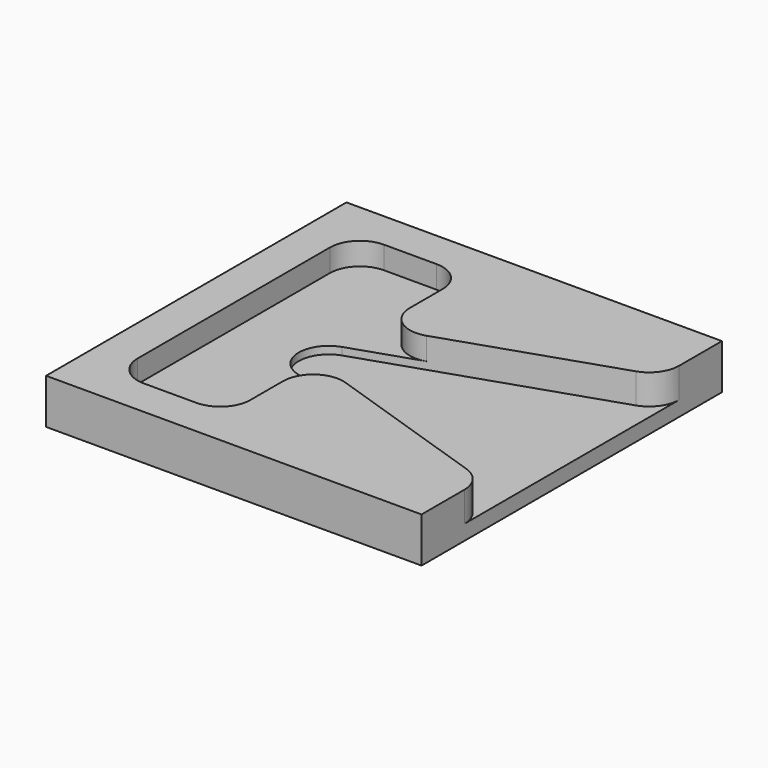
from build123d import *

# Parameters (mm, degrees)
F0_W     = 100
F0_H     = 100
F1_DEPTH = 12
F2_W     = 30
F2_H     = 80
F3_DEPTH = 6
F5_DEPTH = 8
F6_R     = 8


with BuildPart() as f1:
    # F0 (on Top) → F1 (new body)
    with BuildSketch(Plane.XY):
        with Locations((50, 50)):
            Rectangle(F0_W, F0_H)
    extrude(amount=F1_DEPTH)

    # F2 (on face) → F3 (cut)
    with BuildSketch(Plane.XY.offset(12)):
        with Locations((25, 50)):
            Rectangle(F2_W, F2_H)
    extrude(amount=-F3_DEPTH, mode=Mode.SUBTRACT)

    # F4 (on face) → F5 (cut)
    with BuildSketch(Plane.XY.offset(12)):
        Polygon((100, 80), (40, 60), (40, 40), (100, 20), align=None)
        Polygon((40, 60), (10, 50), (40, 40), align=None)
    extrude(amount=-F5_DEPTH, mode=Mode.SUBTRACT)

    # F6
    f6_edges = [f1.edges().sort_by_distance(p)[0] for p in [
        (10, 50, 5),
        (10, 90, 9),
        (10, 10, 9),
        (40, 90, 9),
        (40, 10, 9),
        (100, 20, 8),
        (100, 80, 8),
        (40, 60, 9),
        (40, 40, 9),
    ]]
    fillet(f6_edges, radius=F6_R)


solid = f1.part
